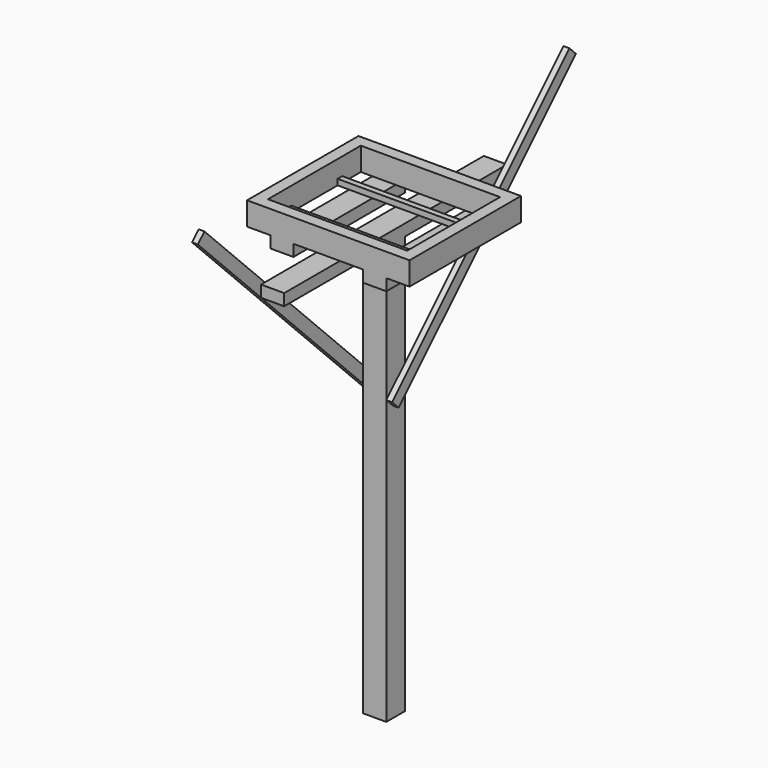
from build123d import *

# Parameters (mm, degrees)
F0_W      = 609.6
F0_H      = 50.8
F1_DEPTH  = 101.6
F2_W      = 101.6
F2_H      = 609.6
F2_H_2    = 1219.2
F3_DEPTH  = 50.8
F4_W      = 101.6
F4_H      = 101.6
F5_DEPTH  = 1828.8
F7_DEPTH  = 25.4
F9_DEPTH  = 25.4
F10_W     = 609.6
F10_H     = 25.4
F11_DEPTH = 25.4


with BuildPart() as f1:
    # F0 (on Top) → F1 (new body)
    with BuildSketch(Plane.XY):
        Polygon((50.8, 0), (0, 0), (0, -609.6), (50.8, -609.6), (50.8, -558.8), (50.8, -50.8), align=None)
        with Locations((355.6, -25.4)):
            Rectangle(F0_W, F0_H)
        Polygon((711.2, 0), (660.4, 0), (660.4, -50.8), (660.4, -558.8), (660.4, -609.6), (711.2, -609.6), align=None)
        with Locations((355.6, -584.2)):
            Rectangle(F0_W, F0_H)
    extrude(amount=-F1_DEPTH)

    # F2 (on Top) → F3 (join)
    with BuildSketch(Plane.XY):
        with Locations((152.4, -304.8)):
            Rectangle(F2_W, F2_H)
        with Locations((558.8, -304.8)):
            Rectangle(F2_W, F2_H)
        with Locations((355.6, -304.8)):
            Rectangle(F2_W, F2_H_2)
    extrude(amount=F3_DEPTH)

    # F4 (on face) → F5 (join)
    with BuildSketch(Plane.XY.offset(50.8)):
        with Locations((355.6, -304.8)):
            Rectangle(F4_W, F4_H)
    extrude(amount=F5_DEPTH)

    # F6 (on face) → F7 (join)
    with BuildSketch(Plane.YZ.offset(406.4)):
        Polygon((614.267661, -330.50971), (650.188686, -294.588686), (-319.678976, 675.278976), (-355.6, 639.357951), align=None)
    extrude(amount=F7_DEPTH)

    # F8 (on face) → F9 (join)
    with BuildSketch(Plane(origin=(304.8, 0, 0), x_dir=(0, -1, 0), z_dir=(-1, 0, 0))):
        Polygon((1223.867661, -330.50971), (1259.788686, -294.588686), (289.921024, 675.278976), (254, 639.357951), align=None)
    extrude(amount=F9_DEPTH)

    # F10 (on face) → F11 (join)
    with BuildSketch(Plane(origin=(0, 0, 0), x_dir=(1, 0, 0), z_dir=(0, 0, -1))):
        with Locations((355.6, 444.5)):
            Rectangle(F10_W, F10_H)
        with Locations((355.6, 165.1)):
            Rectangle(F10_W, F10_H)
    extrude(amount=F11_DEPTH)


with BuildPart() as f12_1:
    # F12: instance of F1
    add(f1.part.mirror(Plane(origin=(355.6, -304.8, -101.6), x_dir=(1, 0, 0), z_dir=(0, 0, -1))))


solid = f12_1.part
